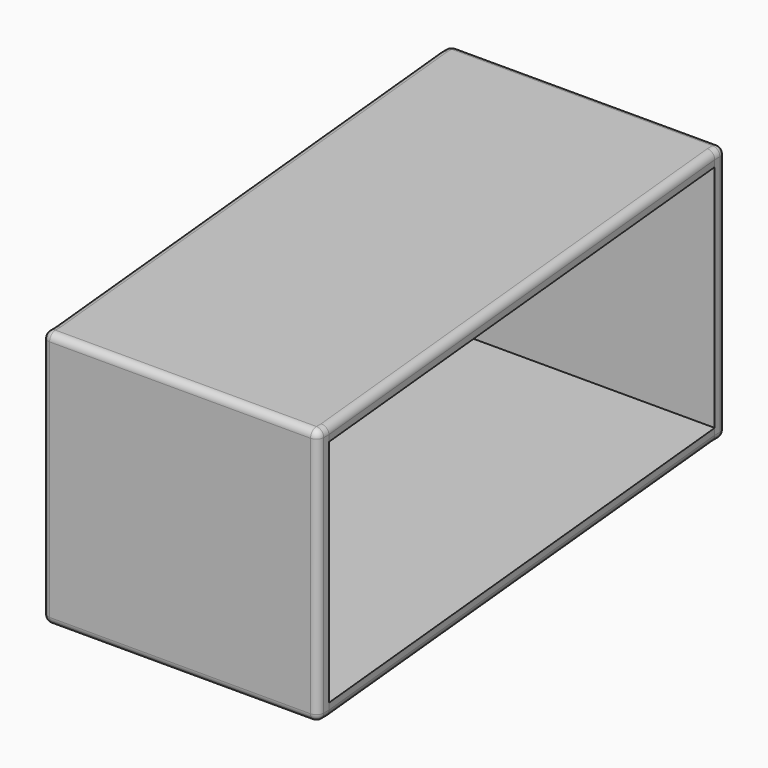
from build123d import *

# Parameters (mm, degrees)
PAD_DEPTH    = 1.5
SKETCH001_W  = 30
SKETCH001_H  = 1.5
PAD001_DEPTH = 25
PAD002_DEPTH = 1.5
FILLET_R     = 0.8


with BuildPart() as part:
    # Sketch → Pad (new body)
    with BuildSketch(Plane.XY):
        Polygon((0, 0), (0, 1.5), (-30, 1.5), (-30, 0), (-24, -60), (-24, -61.5), (6, -61.5), (6, -60), align=None)
    extrude(amount=PAD_DEPTH)

    # Sketch001 (on Face10 of Pad) → Pad001 (join)
    with BuildSketch(Plane.XY.offset(1.5)):
        with Locations((-15, 0.75)):
            Rectangle(SKETCH001_W, SKETCH001_H)
        with Locations((-9, -60.75)):
            Rectangle(SKETCH001_W, SKETCH001_H)
    extrude(amount=PAD001_DEPTH)

    # Sketch002 (on Face16 of Pad001) → Pad002 (join)
    with BuildSketch(Plane.XY.offset(26.5)):
        Polygon((-24, -60), (-30, 0), (-30, 1.5), (0, 1.5), (0, 0), (6, -60), (6, -61.5), (-24, -61.5), align=None)
    extrude(amount=PAD002_DEPTH)

    # Fillet
    fillet_edges = [part.edges().sort_by_distance(p)[0] for p in [
        (-24, -61.5, 14),
        (6, -61.5, 14),
        (-9, -61.5, 0),
        (-9, -61.5, 28),
        (0, 1.5, 14),
        (-15, 1.5, 28),
        (-30, 1.5, 14),
        (-15, 1.5, 0),
        (0, 0.75, 0),
        (3, -30, 0),
        (6, -60.75, 0),
        (-30, 0.75, 0),
        (-27, -30, 0),
        (-24, -60.75, 0),
        (0, 0.75, 28),
        (3, -30, 28),
        (6, -60.75, 28),
        (-30, 0.75, 28),
        (-27, -30, 28),
        (-24, -60.75, 28),
    ]]
    fillet(fillet_edges, radius=FILLET_R)


solid = part.part
